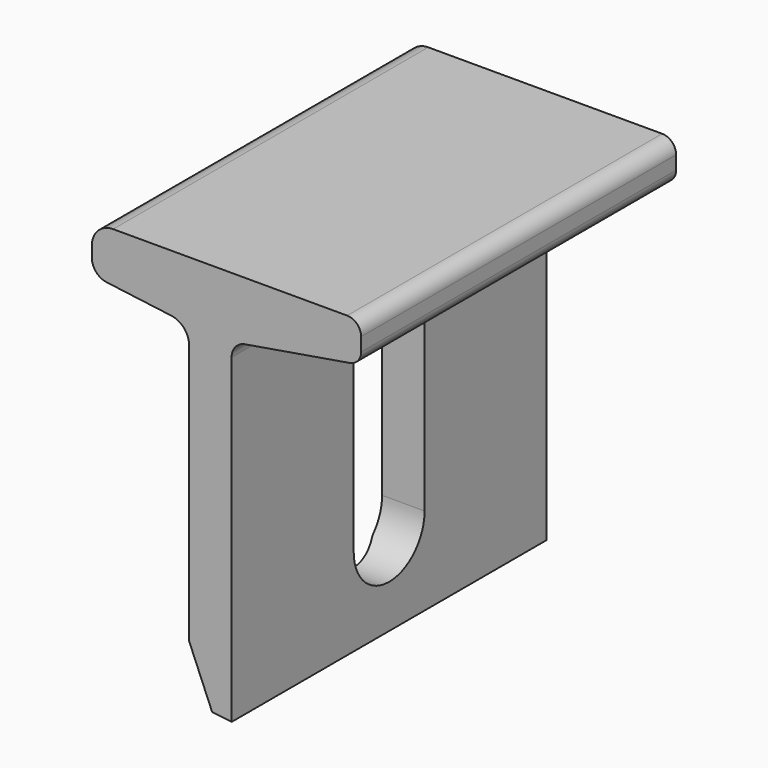
from build123d import *

# Parameters (mm, degrees)
EXTRUDE_DEPTH    = 10
EXTRUDE001_DEPTH = 8


with BuildPart() as syringe_lock_bolt_hole_extrude:
    # Sketch002 → Extrude (new body)
    with BuildSketch(Plane.YZ):
        with BuildLine():
            Line((-1.8, -3.968126), (-1.8, 3.968126))
            ThreePointArc((1.8, 3.968126), (0, 5.768126), (-1.8, 3.968126))
            Line((1.8, 3.968126), (1.8, -3.968126))
            ThreePointArc((-1.8, -3.968126), (0, -5.768126), (1.8, -3.968126))
        make_face()
    extrude(amount=EXTRUDE_DEPTH)


with BuildPart() as syringe_lock_cut:
    # Sketch003 → Extrude001 (new body, symmetric)
    with BuildSketch(Plane.XZ):
        with BuildLine():
            Line((0.935284, -7.43412), (0, -5.199585))
            Line((0, -5.199585), (0, 5.375387))
            ThreePointArc((0, 5.375387), (-0.208788, 5.929256), (-0.731243, 6.207474))
            Line((-0.731243, 6.207474), (-3.352588, 6.54707))
            ThreePointArc((-3.952758, 7.230008), (-3.781394, 6.775418), (-3.352588, 6.54707))
            Line((-3.952758, 7.230008), (-3.952758, 7.667555))
            ThreePointArc((-3.086826, 8.533487), (-3.699132, 8.279861), (-3.952758, 7.667555))
            Line((-3.086826, 8.533487), (6.420806, 8.533487))
            ThreePointArc((6.987146, 7.967147), (6.821269, 8.36761), (6.420806, 8.533487))
            Line((6.987146, 7.967147), (6.987146, 7.416219))
            ThreePointArc((6.528064, 6.873501), (6.856982, 7.060797), (6.987146, 7.416219))
            Line((6.528064, 6.873501), (2.268866, 6.157352))
            ThreePointArc((2.268866, 6.157352), (1.880407, 5.936152), (1.726681, 5.516392))
            Line((1.726681, 5.516392), (1.726681, -7.527226))
            Line((1.726681, -7.527226), (0.935284, -7.43412))
        make_face()
    extrude(amount=EXTRUDE001_DEPTH, both=True)

    # Cut011: cut syringe lock bolt hole extrude
    add(syringe_lock_bolt_hole_extrude.part, mode=Mode.SUBTRACT)


with BuildPart() as syringe_lock_cut_1:
    # Cut011 placement: moved
    add(syringe_lock_cut.part.moved(Location((3.5, 43, 32))))


solid = syringe_lock_cut_1.part
